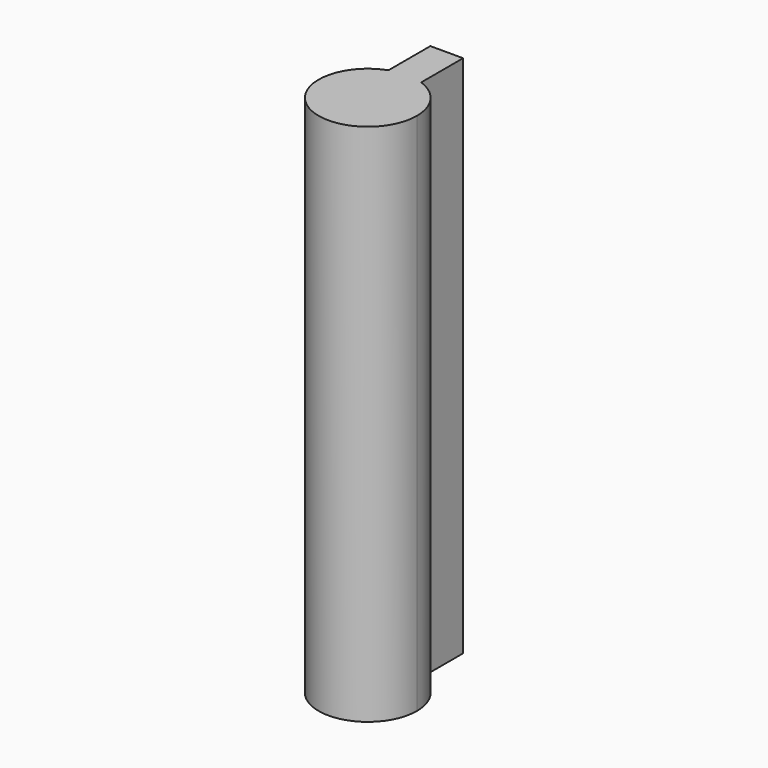
from build123d import *

# Parameters (mm, degrees)
F1_DEPTH = 50.8


with BuildPart() as f1:
    # F0 (on Top) → F1 (new body)
    with BuildSketch(Plane.XY):
        with BuildLine():
            ThreePointArc((-1.5875, 4.4901280605), (-2.749630657, -3.8885649667), (4.7625, 0))
            ThreePointArc((4.7625, 0), (3.8885649667, 2.749630657), (1.5875, 4.4901280605))
            Line((1.5875, 4.4901280605), (-1.5875, 4.4901280605))
        make_face()
        with BuildLine():
            Line((-1.5875, 4.4901280605), (1.5875, 4.4901280605))
            ThreePointArc((1.5875, 4.4901280605), (0, 4.7625), (-1.5875, 4.4901280605))
        make_face()
        with BuildLine():
            ThreePointArc((-1.5875, 4.4901280605), (0, 4.7625), (1.5875, 4.4901280605))
            Line((1.5875, 4.4901280605), (1.5875, 9.5701280605))
            Line((1.5875, 9.5701280605), (-1.5875, 9.5701280605))
            Line((-1.5875, 9.5701280605), (-1.5875, 4.4901280605))
        make_face()
    extrude(amount=F1_DEPTH)


solid = f1.part
